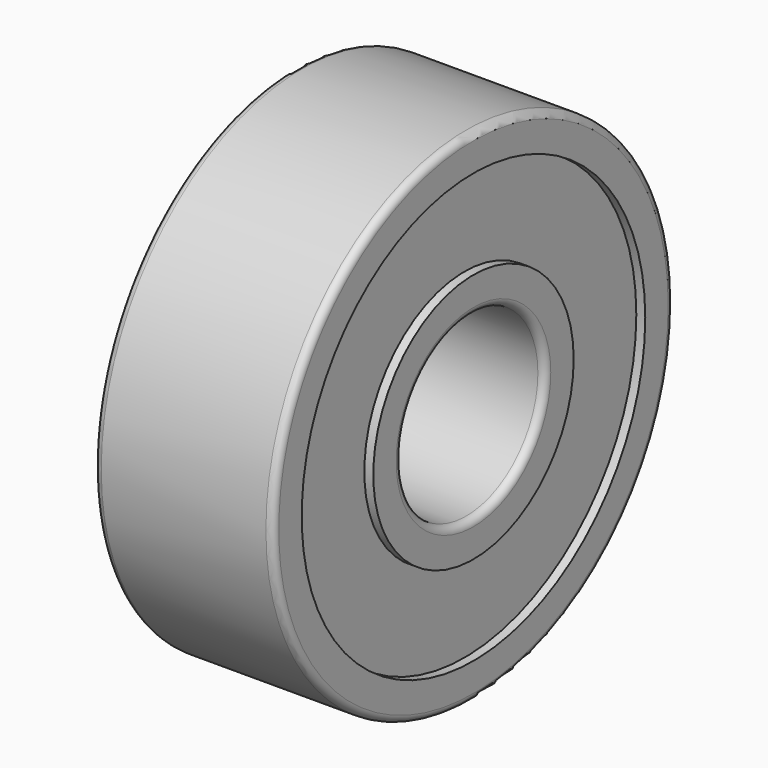
from build123d import *

# Parameters (mm, degrees)
F0_R     = 7
F0_R_2   = 2.5
F1_DEPTH = 5
F2_R     = 6
F2_R_2   = 3.5
F3_DEPTH = 0.25
F4_R     = 6
F4_R_2   = 3.5
F5_DEPTH = 0.25
F6_R     = 0.2


with BuildPart() as f1:
    # F0 (on Right) → F1 (new body)
    with BuildSketch(Plane.YZ):
        Circle(F0_R)
        Circle(F0_R_2, mode=Mode.SUBTRACT)
    extrude(amount=F1_DEPTH)

    # F2 (on Right) → F3 (cut)
    with BuildSketch(Plane.YZ):
        Circle(F2_R)
        Circle(F2_R_2, mode=Mode.SUBTRACT)
    extrude(amount=F3_DEPTH, mode=Mode.SUBTRACT)

    # F4 (on face) → F5 (cut)
    with BuildSketch(Plane.YZ.offset(5)):
        Circle(F4_R)
        Circle(F4_R_2, mode=Mode.SUBTRACT)
    extrude(amount=-F5_DEPTH, mode=Mode.SUBTRACT)

    # F6
    f6_edges = [f1.edges().sort_by_distance(p)[0] for p in [
        (2.5, 7, 0),
        (0, -7, 0),
        (5, -7, 0),
        (2.5, 2.5, 0),
        (0, -2.5, 0),
        (5, -2.5, 0),
    ]]
    fillet(f6_edges, radius=F6_R)


solid = f1.part
